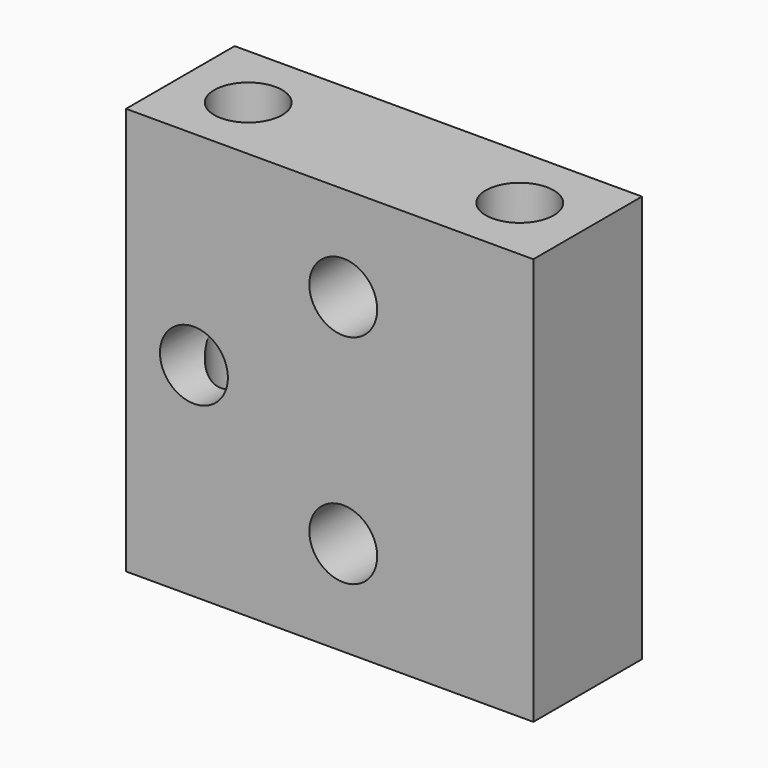
from build123d import *

# Parameters (mm, degrees)
F0_W     = 15
F0_H     = 5
F0_R     = 1.25
F1_DEPTH = 15
F3_D     = 2.5


with BuildPart() as f1:
    # F0 (on Top) → F1 (new body)
    with BuildSketch(Plane.XY):
        Rectangle(F0_W, F0_H)
        with Locations((-5, 0)):
            Circle(F0_R, mode=Mode.SUBTRACT)
        with Locations((5, 0)):
            Circle(F0_R, mode=Mode.SUBTRACT)
    extrude(amount=F1_DEPTH)

    # F3 (through all)
    with Locations(Plane.XZ.offset(2.5)):
        with Locations((0.5, 11.5), (-5, 7.5), (0.5, 3.5)):
            Hole(F3_D / 2)


solid = f1.part
